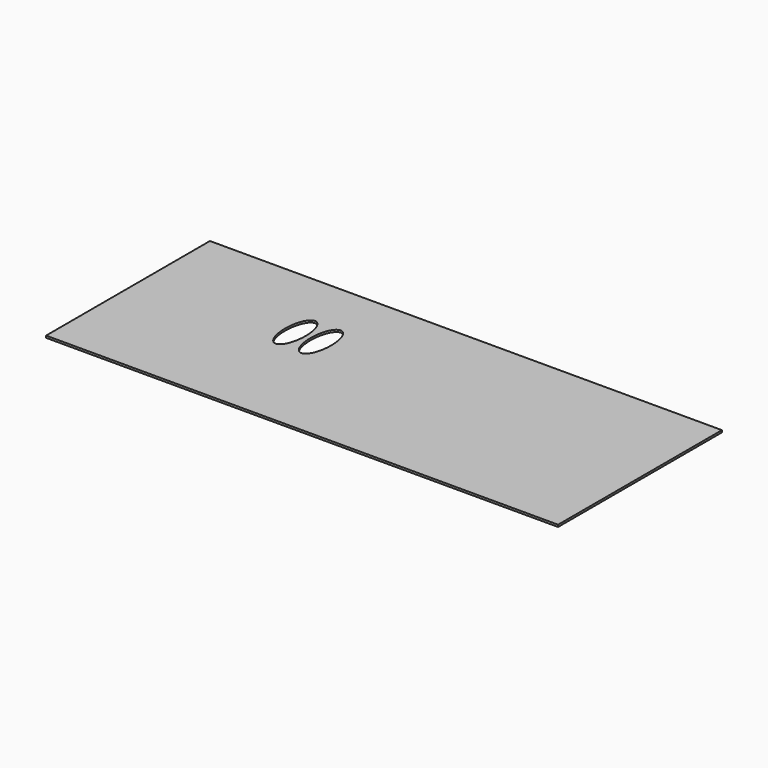
from build123d import *

# Parameters (mm, degrees)
F0_W     = 50
F0_H     = 20
F1_DEPTH = 0.2


with BuildPart() as f1:
    # F0 (on Top) → F1 (new body)
    with BuildSketch(Plane.XY):
        with Locations((25, -10)):
            Rectangle(F0_W, F0_H)
        with BuildLine():
            add(Edge.make_bspline(
                [(15.5, -7.7), (15.5, -3.543078), (14, -5.621539), (12.5, -7.7), (14, -9.778461), (15.5, -11.856922), (15.5, -7.7)],
                knots=[4.712389, 4.712389, 4.712389, 6.806784, 6.806784, 8.901179, 8.901179, 10.995574, 10.995574, 10.995574], degree=2, weights=[1, 0.5, 1, 0.5, 1, 0.5, 1]))
        make_face(mode=Mode.SUBTRACT)
        with BuildLine():
            add(Edge.make_bspline(
                [(18, -7.7), (18, -3.543078), (16.5, -5.621539), (15, -7.7), (16.5, -9.778461), (18, -11.856922), (18, -7.7)],
                knots=[4.712389, 4.712389, 4.712389, 6.806784, 6.806784, 8.901179, 8.901179, 10.995574, 10.995574, 10.995574], degree=2, weights=[1, 0.5, 1, 0.5, 1, 0.5, 1]))
        make_face(mode=Mode.SUBTRACT)
    extrude(amount=F1_DEPTH)


solid = f1.part
